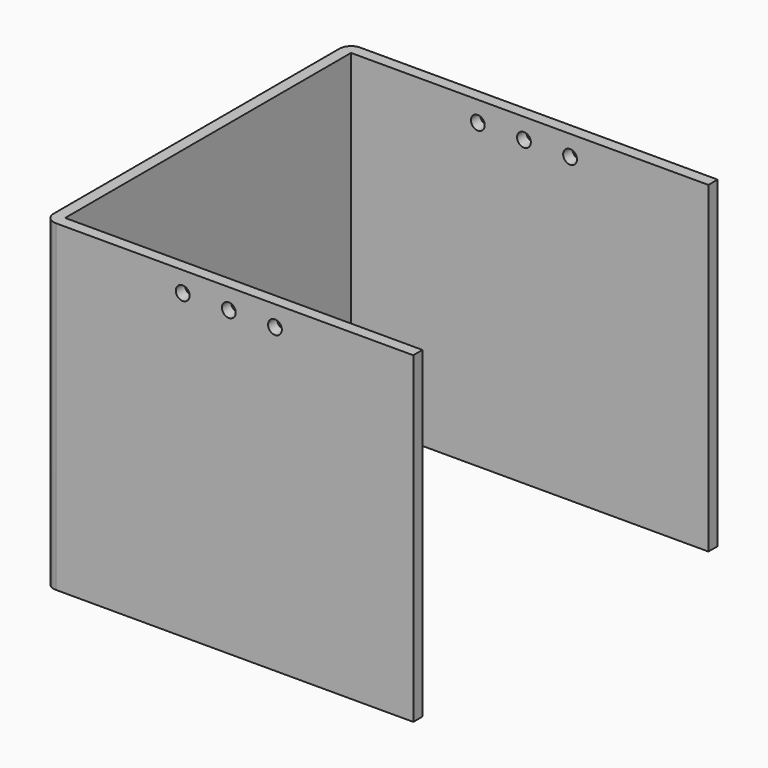
from build123d import *

# Parameters (mm, degrees)
F0_W     = 101.6
F0_H     = 88.9
F1_DEPTH = 3.175
F2_W     = 3.175
F2_H     = 88.9
F3_DEPTH = 101.6
F4_W     = 3.175
F4_H     = 88.9
F5_DEPTH = 98.425
F6_R     = 3.175
F7_R     = 1.905
F8_DEPTH = 104.776


with BuildPart() as f1:
    # F0 (on Front) → F1 (new body)
    with BuildSketch(Plane.XZ):
        with Locations((50.8, 44.45)):
            Rectangle(F0_W, F0_H)
    extrude(amount=F1_DEPTH)

    # F2 (on face) → F3 (join)
    with BuildSketch(Plane.XZ.offset(3.175)):
        with Locations((1.5875, 44.45)):
            Rectangle(F2_W, F2_H)
    extrude(amount=F3_DEPTH)

    # F4 (on face) → F5 (join, through all)
    with BuildSketch(Plane.YZ.offset(3.175)):
        with Locations((-103.1875, 44.45)):
            Rectangle(F4_W, F4_H)
    extrude(amount=F5_DEPTH)

    # F6
    f6_edges = [f1.edges().sort_by_distance(p)[0] for p in [
        (0, 0, 44.45),
        (0, -104.775, 44.45),
    ]]
    fillet(f6_edges, radius=F6_R)

    # F7 (on face) → F8 (cut, through all)
    with BuildSketch(Plane.XZ.offset(104.775)):
        with Locations((38.1, 83.312)):
            Circle(F7_R)
        with Locations((50.8, 83.312)):
            Circle(F7_R)
        with Locations((63.5, 83.312)):
            Circle(F7_R)
    extrude(amount=-F8_DEPTH, mode=Mode.SUBTRACT)


solid = f1.part
